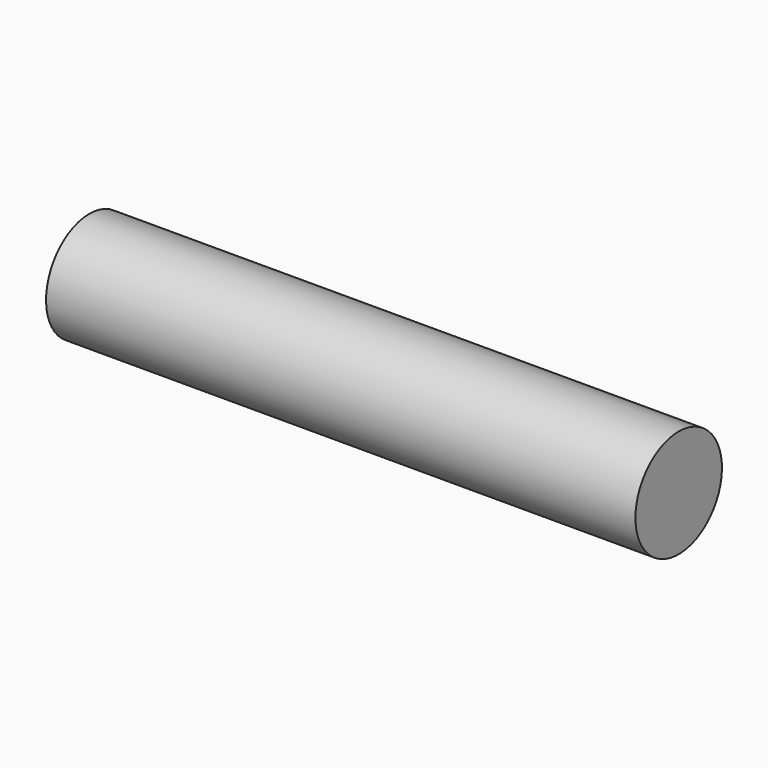
from build123d import *

# Parameters (mm, degrees)
F0_W = 54.49438
F0_H = 5


with BuildPart() as f1:
    # F0 (on Front) → F1 (revolve)
    with BuildSketch(Plane.XZ):
        Rectangle(F0_W, F0_H)
    revolve(axis=Axis((0, 0, -2.5), (1, 0, 0)))


solid = f1.part
